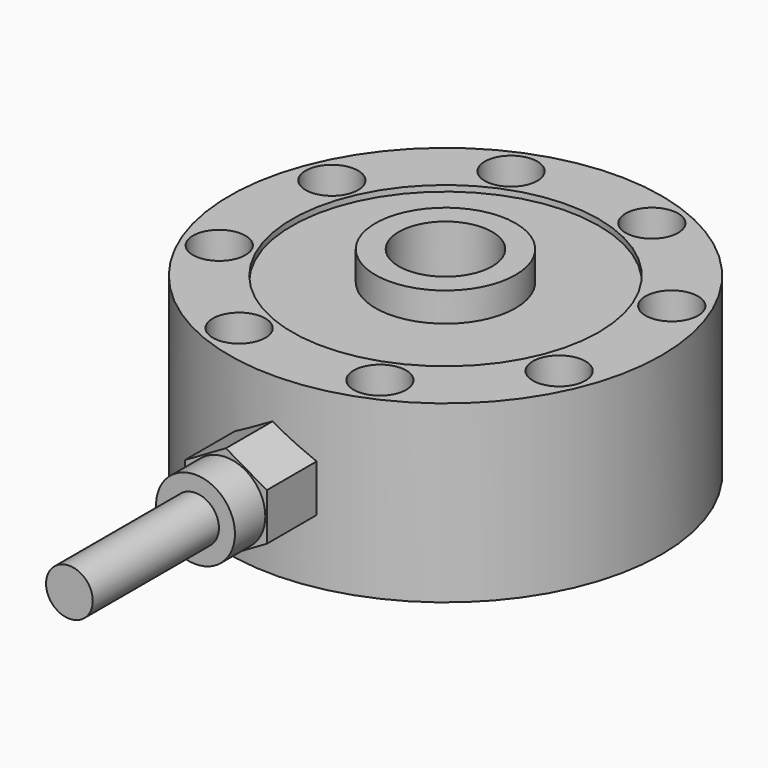
from build123d import *

# Parameters (mm, degrees)
SKETCH_R        = 37
SKETCH_R_2      = 8
SKETCH_R_3      = 3
PAD_DEPTH       = 30
SKETCH006_R     = 12
SKETCH006_R_2   = 8
PAD001_DEPTH    = 4
SKETCH007_R     = 4.5
POCKET_DEPTH    = 7.2
PAD002_DEPTH    = 12
SKETCH009_R     = 6.75
PAD003_DEPTH    = 6.5
SKETCH010_R     = 4
PAD004_DEPTH    = 27
SKETCH011_R     = 26.25
SKETCH011_R_2   = 12
POCKET001_DEPTH = 1
SKETCH012_R     = 26
SKETCH012_R_2   = 12
POCKET002_DEPTH = 2
SKETCH013_R     = 12
POCKET003_DEPTH = 1


with BuildPart() as part:
    # Sketch → Pad (new body)
    with BuildSketch(Plane.XY):
        Circle(SKETCH_R)
        Circle(SKETCH_R_2, mode=Mode.SUBTRACT)
        with Locations((12.054528, 29.102205)):
            Circle(SKETCH_R_3, mode=Mode.SUBTRACT)
        with Locations((-29.102205, 12.054528)):
            Circle(SKETCH_R_3, mode=Mode.SUBTRACT)
        with Locations((-29.102205, -12.054528)):
            Circle(SKETCH_R_3, mode=Mode.SUBTRACT)
        with Locations((-12.054528, -29.102205)):
            Circle(SKETCH_R_3, mode=Mode.SUBTRACT)
        with Locations((29.102205, -12.054528)):
            Circle(SKETCH_R_3, mode=Mode.SUBTRACT)
        with Locations((29.102205, 12.054528)):
            Circle(SKETCH_R_3, mode=Mode.SUBTRACT)
        with Locations((-12.054528, 29.102205)):
            Circle(SKETCH_R_3, mode=Mode.SUBTRACT)
        with Locations((12.054528, -29.102205)):
            Circle(SKETCH_R_3, mode=Mode.SUBTRACT)
    extrude(amount=PAD_DEPTH)

    # Sketch006 → Pad001 (join)
    with BuildSketch(Plane.XY.offset(30)):
        Circle(SKETCH006_R)
        Circle(SKETCH006_R_2, mode=Mode.SUBTRACT)
    extrude(amount=PAD001_DEPTH)

    # Sketch007 (on Face3 of Pad001) → Pocket (cut)
    with BuildSketch(Plane.XY.offset(30)):
        with Locations((-29.102205, 12.054528)):
            Circle(SKETCH007_R)
        with Locations((29.102205, 12.054528)):
            Circle(SKETCH007_R)
        with Locations((12.054528, 29.102205)):
            Circle(SKETCH007_R)
        with Locations((-12.054528, 29.102205)):
            Circle(SKETCH007_R)
        with Locations((12.054528, -29.102205)):
            Circle(SKETCH007_R)
        with Locations((-29.102205, -12.054528)):
            Circle(SKETCH007_R)
        with Locations((-12.054528, -29.102205)):
            Circle(SKETCH007_R)
        with Locations((29.102205, -12.054528)):
            Circle(SKETCH007_R)
    extrude(amount=-POCKET_DEPTH, mode=Mode.SUBTRACT)

    # Sketch008 → Pad002 (join)
    with BuildSketch(Plane.XZ.offset(35)):
        Polygon((0, 23.082904), (-7, 19.041452), (-7, 10.958548), (0, 6.917096), (7, 10.958548), (7, 19.041452), align=None)
    extrude(amount=PAD002_DEPTH)

    # Sketch009 (on Face28 of Pad002) → Pad003 (join)
    with BuildSketch(Plane.XZ.offset(47)):
        with Locations((0, 15)):
            Circle(SKETCH009_R)
    extrude(amount=PAD003_DEPTH)

    # Sketch010 (on Face40 of Pad003) → Pad004 (join)
    with BuildSketch(Plane.XZ.offset(53.5)):
        with Locations((0, 15)):
            Circle(SKETCH010_R)
    extrude(amount=PAD004_DEPTH)

    # Sketch011 (on Face3 of Pad004) → Pocket001 (cut)
    with BuildSketch(Plane.XY.offset(30)):
        Circle(SKETCH011_R)
        Circle(SKETCH011_R_2, mode=Mode.SUBTRACT)
    extrude(amount=-POCKET001_DEPTH, mode=Mode.SUBTRACT)

    # Sketch012 → Pocket002 (cut)
    with BuildSketch(Plane.XY):
        Circle(SKETCH012_R)
        Circle(SKETCH012_R_2, mode=Mode.SUBTRACT)
    extrude(amount=POCKET002_DEPTH, mode=Mode.SUBTRACT)

    # Sketch013 → Pocket003 (cut)
    with BuildSketch(Plane.XY):
        Circle(SKETCH013_R)
    extrude(amount=POCKET003_DEPTH, mode=Mode.SUBTRACT)


solid = part.part
